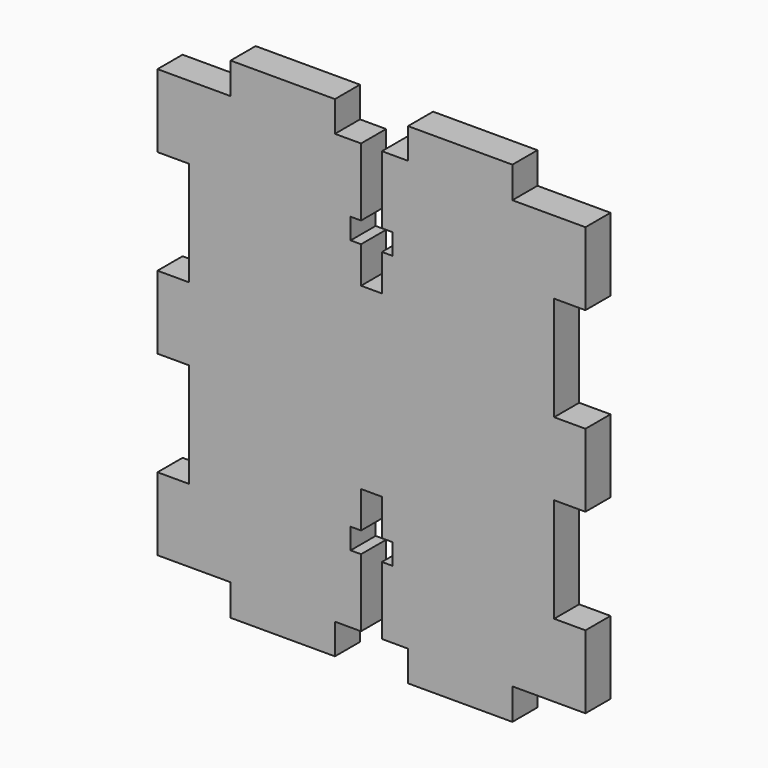
from build123d import *

# Parameters (mm, degrees)
F1_DEPTH = 3


with BuildPart() as f1:
    # F0 (on Front) → F1 (new body)
    with BuildSketch(Plane.XZ):
        Polygon((13.66587, 20.293725), (13.66587, 23.293725), (3.66587, 23.293725), (3.66587, 20.365426), (1.16587, 20.365426), (1.16587, 13.865426), (2.16587, 13.865426), (2.16587, 11.865426), (1.16587, 11.865426), (1.16587, 8.365426), (-0.83413, 8.365426), (-0.83413, 11.865426), (-1.83413, 11.865426), (-1.83413, 13.865426), (-0.83413, 13.865426), (-0.83413, 20.365426), (-3.33413, 20.365426), (-3.33413, 23.293725), (-13.33413, 23.293725), (-13.33413, 20.293725), (-20.33413, 20.293725), (-20.33413, 13.293725), (-17.33413, 13.293725), (-17.33413, 3.293725), (-20.33413, 3.293725), (-20.33413, -3.706275), (-17.33413, -3.706275), (-17.33413, -13.706275), (-20.33413, -13.706275), (-20.33413, -20.706275), (-13.33413, -20.706275), (-13.33413, -23.706275), (-3.33413, -23.706275), (-3.33413, -20.777976), (-0.83413, -20.777976), (-0.83413, -14.277976), (-1.83413, -14.277976), (-1.83413, -12.277976), (-0.83413, -12.277976), (-0.83413, -8.777976), (1.16587, -8.777976), (1.16587, -12.277976), (2.16587, -12.277976), (2.16587, -14.277976), (1.16587, -14.277976), (1.16587, -20.777976), (3.66587, -20.777976), (3.66587, -23.706275), (13.66587, -23.706275), (13.66587, -20.706275), (20.66587, -20.706275), (20.66587, -13.706275), (17.66587, -13.706275), (17.66587, -3.706275), (20.66587, -3.706275), (20.66587, 3.293725), (17.66587, 3.293725), (17.66587, 13.293725), (20.66587, 13.293725), (20.66587, 20.293725), align=None)
    extrude(amount=F1_DEPTH)


solid = f1.part
